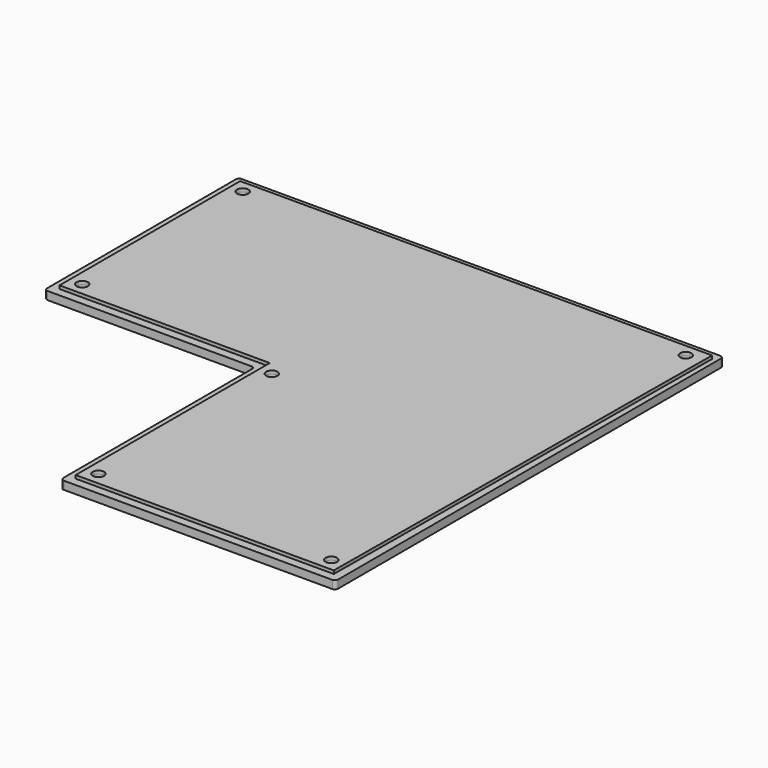
from build123d import *

# Parameters (mm, degrees)
F1_DEPTH = 2.5
F2_R     = 1.75
F3_DEPTH = 3.5
F4_DEPTH = 1
F5_R     = 1


with BuildPart() as f1:
    # F0 (on Top) → F1 (new body)
    with BuildSketch(Plane.XY):
        Polygon((-10, -75), (75, -75), (75, 75), (-75, 75), (-75, 0), (-10, 0), align=None)
    extrude(amount=F1_DEPTH)

    # F2 (on face) → F3 (cut)
    with BuildSketch(Plane.XY.offset(2.5)):
        with Locations((-68.5, 68.5)):
            Circle(F2_R)
        with Locations((68.5, 68.5)):
            Circle(F2_R)
        with Locations((68.5, -68.5)):
            Circle(F2_R)
        with Locations((-3.5, -68.5)):
            Circle(F2_R)
        with Locations((-68.5, 6.5)):
            Circle(F2_R)
        with Locations((-3.5, -1.5)):
            Circle(F2_R)
    extrude(amount=-F3_DEPTH, mode=Mode.SUBTRACT)

    # F2 (on face) → F4 (join)
    with BuildSketch(Plane.XY.offset(2.5)):
        Polygon((73.5, 72.4), (-72.4, 72.4), (-72.4, 2.6), (-7.4, 2.6), (-7.4, -72.4), (72.4, -72.4), align=None)
        with Locations((-3.5, -68.5)):
            Circle(F2_R, mode=Mode.SUBTRACT)
        with Locations((-3.5, -1.5)):
            Circle(F2_R, mode=Mode.SUBTRACT)
        with Locations((68.5, -68.5)):
            Circle(F2_R, mode=Mode.SUBTRACT)
        with Locations((-68.5, 6.5)):
            Circle(F2_R, mode=Mode.SUBTRACT)
        with Locations((-68.5, 68.5)):
            Circle(F2_R, mode=Mode.SUBTRACT)
        with Locations((68.5, 68.5)):
            Circle(F2_R, mode=Mode.SUBTRACT)
    extrude(amount=F4_DEPTH)

    # F5
    f5_edges = [f1.edges().sort_by_distance(p)[0] for p in [
        (-10, 0, 1.25),
        (-10, -75, 1.25),
        (75, -75, 1.25),
        (75, 75, 1.25),
        (-75, 75, 1.25),
        (-75, 0, 1.25),
    ]]
    fillet(f5_edges, radius=F5_R)


solid = f1.part
